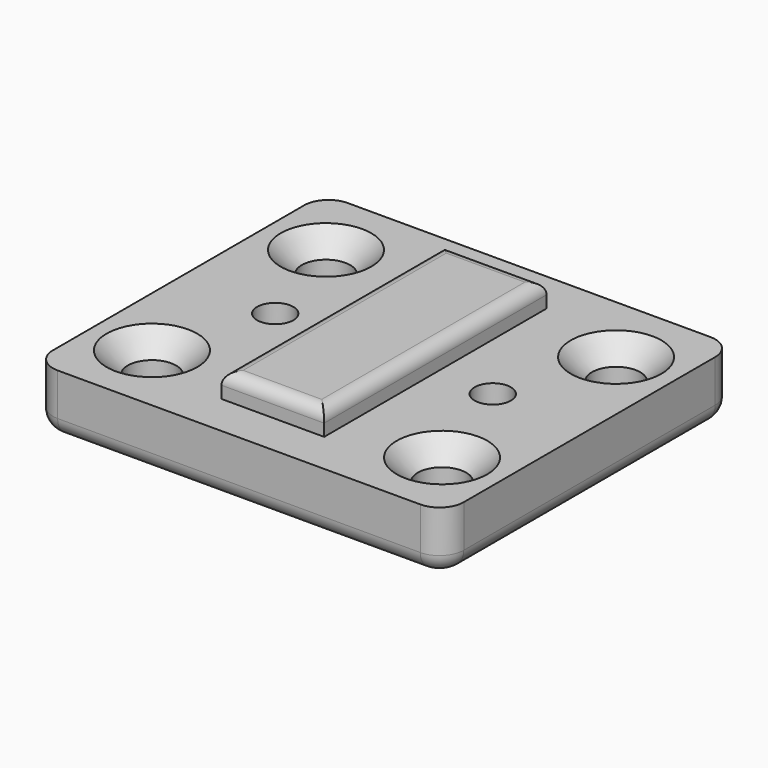
from build123d import *

# Parameters (mm, degrees)
F0_W      = 34
F0_H      = 30
F0_R      = 2
F1_DEPTH  = 5
F2_R      = 1.5
F3_DEPTH  = 5
F4_SIZE   = 1.75
F5_R      = 1.5
F6_DEPTH  = 2.5
F8_R      = 2
F9_R      = 1.5
F10_W     = 8.5
F10_H     = 23
F11_DEPTH = 2
F12_R     = 1


with BuildPart() as f1:
    # F0 (on Top) → F1 (new body)
    with BuildSketch(Plane.XY):
        Rectangle(F0_W, F0_H)
        with Locations((-12, -9)):
            Circle(F0_R, mode=Mode.SUBTRACT)
        with Locations((12, -9)):
            Circle(F0_R, mode=Mode.SUBTRACT)
        with Locations((-12, 9)):
            Circle(F0_R, mode=Mode.SUBTRACT)
        with Locations((12, 9)):
            Circle(F0_R, mode=Mode.SUBTRACT)
    extrude(amount=F1_DEPTH)

    # F2 (on face) → F3 (cut, through all)
    with BuildSketch(Plane.XY.offset(5)):
        with Locations((9, 0)):
            Circle(F2_R)
        with Locations((-9, 0)):
            Circle(F2_R)
    extrude(amount=-F3_DEPTH, mode=Mode.SUBTRACT)

    # F4
    f4_edges = [f1.edges().sort_by_distance(p)[0] for p in [
        (-14, -9, 5),
        (-14, 9, 5),
        (10, 9, 5),
        (10, -9, 5),
    ]]
    chamfer(f4_edges, length=F4_SIZE)

    # F5 (on face) → F6 (cut)
    with BuildSketch(Plane(origin=(0, 0, 0), x_dir=(1, 0, 0), z_dir=(0, 0, -1))):
        Polygon((-6.3, -1.558846), (-6.3, 1.558846), (-9, 3.117691), (-11.7, 1.558846), (-11.7, -1.558846), (-9, -3.117691), align=None)
        with Locations((-9, 0)):
            Circle(F5_R, mode=Mode.SUBTRACT)
        Polygon((6.3, 1.558846), (6.3, -1.558846), (9, -3.117691), (11.7, -1.558846), (11.7, 1.558846), (9, 3.117691), align=None)
        with Locations((9, 0)):
            Circle(F5_R, mode=Mode.SUBTRACT)
    extrude(amount=-F6_DEPTH, mode=Mode.SUBTRACT)

    # F8
    f8_edges = [f1.edges().sort_by_distance(p)[0] for p in [
        (17, -15, 2.5),
        (17, 15, 2.5),
        (-17, -15, 2.5),
        (-17, 15, 2.5),
    ]]
    fillet(f8_edges, radius=F8_R)

    # F9
    f9_edges = [f1.edges().sort_by_distance(p)[0] for p in [
        (0, -15, 0),
    ]]
    fillet(f9_edges, radius=F9_R)

    # F10 (on face) → F11 (join)
    with BuildSketch(Plane.XY.offset(5)):
        Rectangle(F10_W, F10_H)
    extrude(amount=F11_DEPTH)

    # F12
    f12_edges = [f1.edges().sort_by_distance(p)[0] for p in [
        (0, -11.5, 7),
        (4.25, 0, 7),
        (-4.25, 0, 7),
        (0, 11.5, 7),
    ]]
    fillet(f12_edges, radius=F12_R)


solid = f1.part
